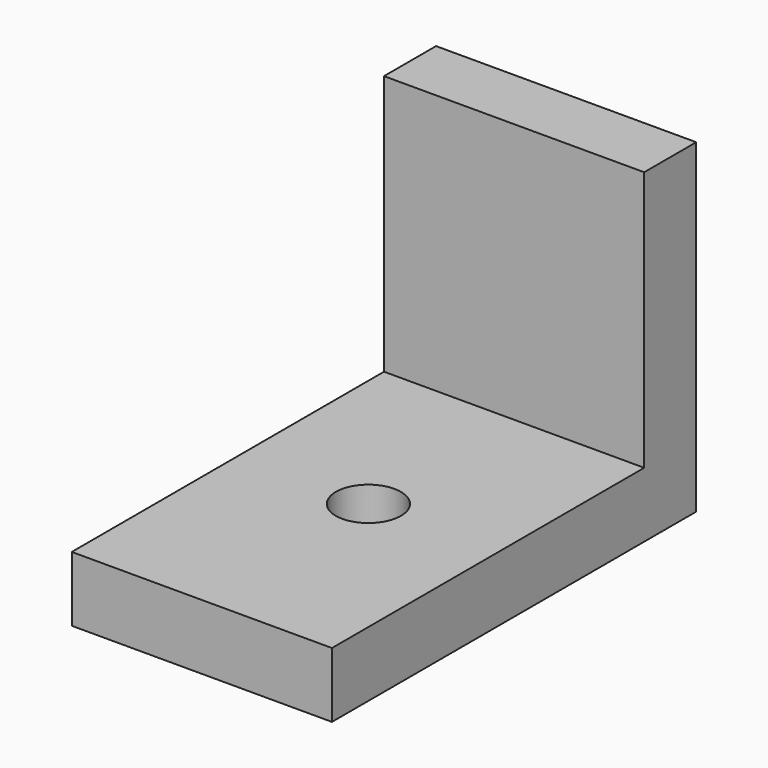
from build123d import *

# Parameters (mm, degrees)
F1_DEPTH = 25.4
F3_D     = 6.35
F3_DEPTH = 0.0254
F3_TIP   = 1.9077324654
F5_D     = 6.35


with BuildPart() as f1:
    # F0 (on Right) → F1 (new body)
    with BuildSketch(Plane.YZ):
        Polygon((19.0030846266, 19.1524188638), (12.6530846266, 19.1524188638), (12.6530846266, -6.2475811362), (-25.4469153734, -6.2475811362), (-25.4469153734, -12.5975811362), (19.0030846266, -12.5975811362), align=None)
    extrude(amount=F1_DEPTH)

    # F3
    with Locations(Plane(origin=(0, 19.0030846266, 0), x_dir=(-1, 0, 0), z_dir=(0, 1, 0))):
        with Locations((-12.7, 0.1024188638)):
            Hole(F3_D / 2, depth=F3_DEPTH)
            with Locations((0, 0, -(F3_DEPTH + F3_TIP / 2))):  # 118° drill point
                Cone(0, F3_D / 2, F3_TIP, mode=Mode.SUBTRACT)

    # F5 (through all)
    with Locations(Plane.XY.offset(-6.2475811362)):
        with Locations((12.7, -5.1269153734)):
            Hole(F5_D / 2)


solid = f1.part
